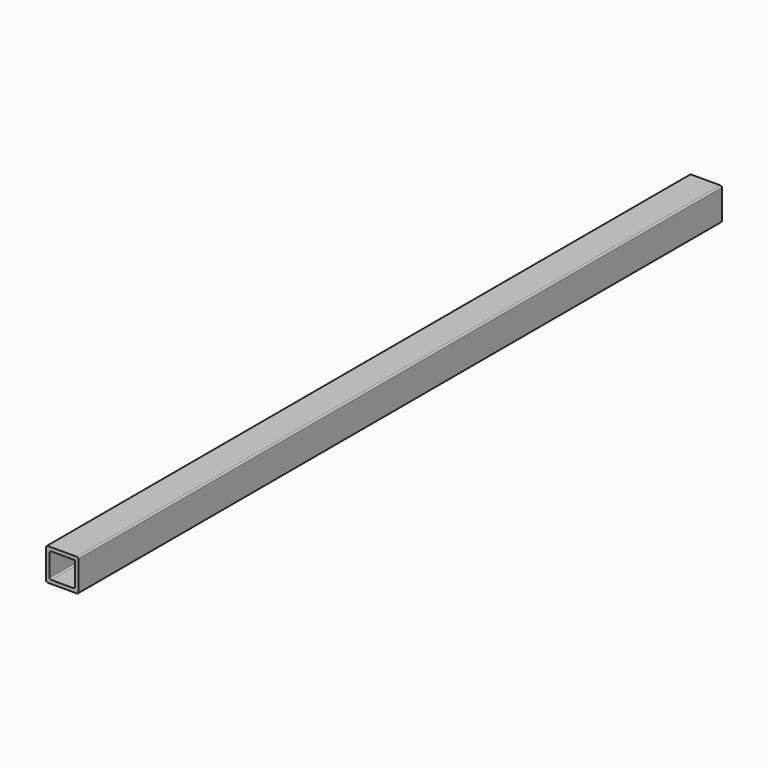
from build123d import *

# Parameters (mm, degrees)
F1_DEPTH = 1422.4


with BuildPart() as f1:
    # F0 (on Front) → F1 (new body)
    with BuildSketch(Plane.XZ):
        with BuildLine():
            Line((24.488532, 35.02659), (-27.581468, 35.02659))
            ThreePointArc((-27.581468, 35.02659), (-29.377519, 34.282641), (-30.121468, 32.48659))
            Line((-30.121468, 32.48659), (-30.121468, -19.58341))
            ThreePointArc((-30.121468, -19.58341), (-29.377519, -21.379462), (-27.581468, -22.12341))
            Line((-27.581468, -22.12341), (24.488532, -22.12341))
            ThreePointArc((24.488532, -22.12341), (26.284584, -21.379462), (27.028532, -19.58341))
            Line((27.028532, -19.58341), (27.028532, 32.48659))
            ThreePointArc((27.028532, 32.48659), (26.284584, 34.282641), (24.488532, 35.02659))
        make_face()
        with BuildLine():
            ThreePointArc((-23.771468, 26.13659), (-23.027519, 27.932641), (-21.231468, 28.67659))
            Line((-21.231468, 28.67659), (20.678532, 28.67659))
            Line((20.678532, 28.67659), (20.678532, -13.23341))
            ThreePointArc((20.678532, -13.23341), (19.934584, -15.029462), (18.138532, -15.77341))
            Line((18.138532, -15.77341), (-21.231468, -15.77341))
            ThreePointArc((-21.231468, -15.77341), (-23.027519, -15.029462), (-23.771468, -13.23341))
            Line((-23.771468, -13.23341), (-23.771468, 26.13659))
        make_face(mode=Mode.SUBTRACT)
    extrude(amount=F1_DEPTH)


solid = f1.part
